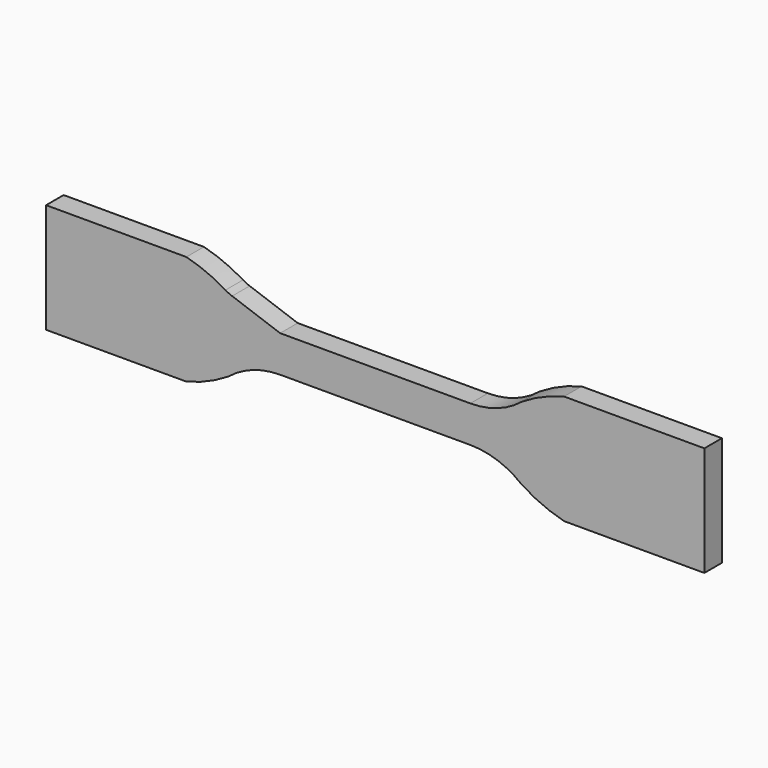
from build123d import *

# Parameters (mm, degrees)
F1_DEPTH = 1.905


with BuildPart() as f1:
    # F0 (on Front) → F1 (new body, symmetric)
    with BuildSketch(Plane.XZ):
        with BuildLine():
            Line((0, -3.175), (0, 0))
            Line((0, 0), (0, 3.175))
            Line((0, 3.175), (-16.51, 3.175))
            Line((-16.51, 3.175), (-24.846308, 6.136235))
            ThreePointArc((-24.846308, 6.136235), (-25.435377, 6.379422), (-25.997104, 6.68043))
            ThreePointArc((-25.997104, 6.68043), (-29.288873, 8.350068), (-32.787868, 9.525))
            Line((-32.787868, 9.525), (-57.15, 9.525))
            Line((-57.15, 9.525), (-57.15, 0))
            Line((-57.15, 0), (-57.15, -9.525))
            Line((-57.15, -9.525), (-32.787868, -9.525))
            ThreePointArc((-32.787868, -9.525), (-29.010823, -8.231647), (-25.483093, -6.362434))
            ThreePointArc((-25.483093, -6.362434), (-21.271201, -3.995525), (-16.51, -3.175))
            Line((-16.51, -3.175), (0, -3.175))
        make_face()
        with BuildLine():
            Line((0, 3.175), (0, 0))
            Line((0, 0), (0, -3.175))
            Line((0, -3.175), (16.51, -3.175))
            ThreePointArc((16.51, -3.175), (21.271201, -3.995525), (25.483093, -6.362434))
            ThreePointArc((25.483093, -6.362434), (29.010823, -8.231647), (32.787868, -9.525))
            Line((32.787868, -9.525), (57.15, -9.525))
            Line((57.15, -9.525), (57.15, 0))
            Line((57.15, 0), (57.15, 9.525))
            Line((57.15, 9.525), (32.787868, 9.525))
            ThreePointArc((32.787868, 9.525), (29.010823, 8.231647), (25.483093, 6.362434))
            ThreePointArc((25.483093, 6.362434), (21.271201, 3.995525), (16.51, 3.175))
            Line((16.51, 3.175), (0, 3.175))
        make_face()
    extrude(amount=F1_DEPTH, both=True)


solid = f1.part
